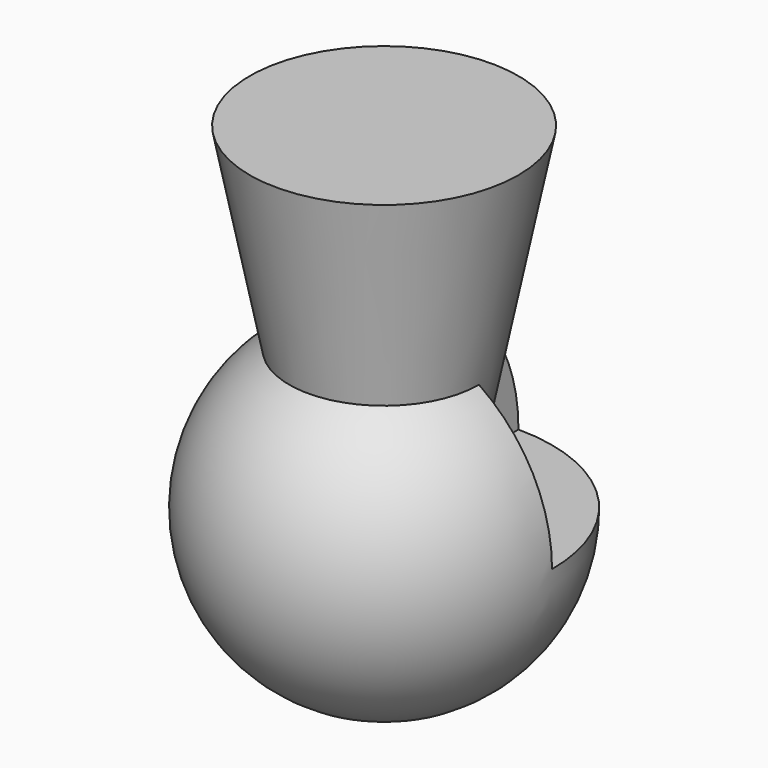
from build123d import *

# Parameters (mm, degrees)
BOX_W     = 10
BOX_H     = 10
BOX_DEPTH = 10


with BuildPart() as cube:
    # Box → Box (new body)
    with BuildSketch(Plane.XY):
        with Locations((5, 5)):
            Rectangle(BOX_W, BOX_H)
    extrude(amount=BOX_DEPTH)


with BuildPart() as cut:
    # Sphere → Sphere (revolve)
    with BuildSketch(Plane.XZ):
        with BuildLine():
            ThreePointArc((0, -5), (5, 0), (0, 5))
            Line((0, 5), (0, -5))
        make_face()
    revolve(axis=Axis((0, 0, 0), (0, 0, 1)))

    # Cut: cut Cube
    add(cube.part, mode=Mode.SUBTRACT)


with BuildPart() as cut_1:
    # Cut placement: moved
    add(cut.part.moved(Location((0, 20, 0))))


with BuildPart() as fusion:
    # Cone → Cone (revolve)
    with BuildSketch(Plane.XZ.offset(-20)):
        Polygon((0, 0), (2, 0), (4, 10), (0, 10), align=None)
    revolve(axis=Axis((0, 20, 0), (0, 0, 1)))

    # Fusion: union Cut
    add(cut_1.part)


solid = fusion.part
